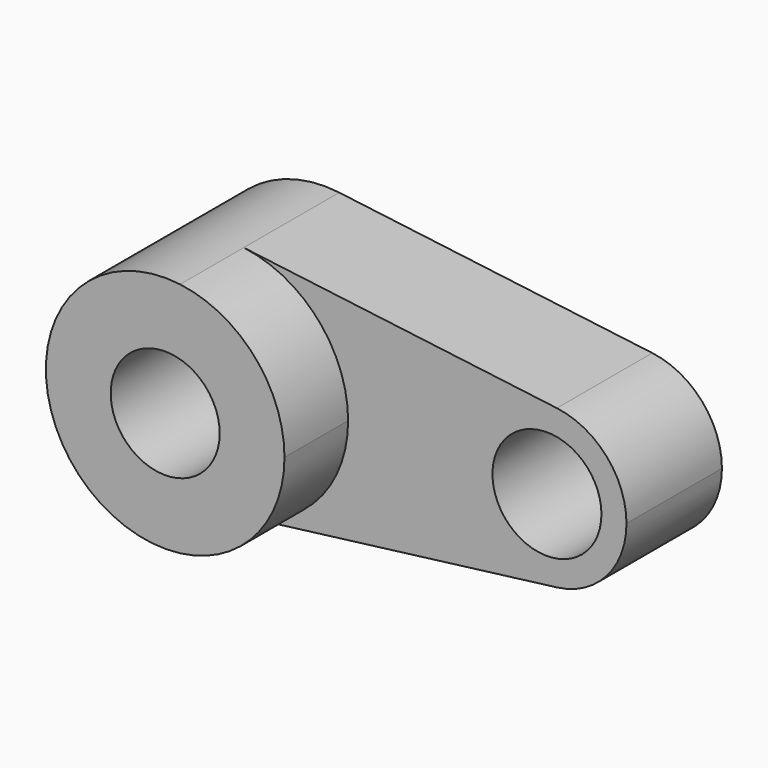
from build123d import *

# Parameters (mm, degrees)
F0_R     = 13.702917
F1_DEPTH = 30
F2_DEPTH = 50


with BuildPart() as f1:
    # F0 (on Front) → F1 (new body)
    with BuildSketch(Plane.XZ):
        with BuildLine():
            ThreePointArc((-25.52233, -29.764702), (-6.77233, -19.843135), (0.72767, 0))
            ThreePointArc((0.72767, 0), (-6.77233, 19.843135), (-25.52233, 29.764702))
            ThreePointArc((-25.52233, 29.764702), (-59.27233, 0), (-25.52233, -29.764702))
        make_face()
        with Locations((-29.27233, 0)):
            Circle(F0_R, mode=Mode.SUBTRACT)
        with BuildLine():
            ThreePointArc((70.72767, 0), (65.72767, 13.228757), (53.22767, 19.843135))
            ThreePointArc((53.22767, 19.843135), (30.72767, 0), (53.22767, -19.843135))
            ThreePointArc((53.22767, -19.843135), (65.72767, -13.228757), (70.72767, 0))
        make_face()
        with Locations((50.72767, 0)):
            Circle(F0_R, mode=Mode.SUBTRACT)
        with BuildLine():
            ThreePointArc((-25.52233, 29.764702), (-6.77233, 19.843135), (0.72767, 0))
            ThreePointArc((0.72767, 0), (-6.77233, -19.843135), (-25.52233, -29.764702))
            Line((-25.52233, -29.764702), (53.22767, -19.843135))
            ThreePointArc((53.22767, -19.843135), (30.72767, 0), (53.22767, 19.843135))
            Line((53.22767, 19.843135), (-25.52233, 29.764702))
        make_face()
    extrude(amount=F1_DEPTH)


with BuildPart() as f2:
    # F0 (on Front) → F2 (new body)
    with BuildSketch(Plane.XZ):
        with BuildLine():
            ThreePointArc((-25.52233, -29.764702), (-6.77233, -19.843135), (0.72767, 0))
            ThreePointArc((0.72767, 0), (-6.77233, 19.843135), (-25.52233, 29.764702))
            ThreePointArc((-25.52233, 29.764702), (-59.27233, 0), (-25.52233, -29.764702))
        make_face()
        with Locations((-29.27233, 0)):
            Circle(F0_R, mode=Mode.SUBTRACT)
    extrude(amount=F2_DEPTH)


solid = Compound([f1.part, f2.part])
